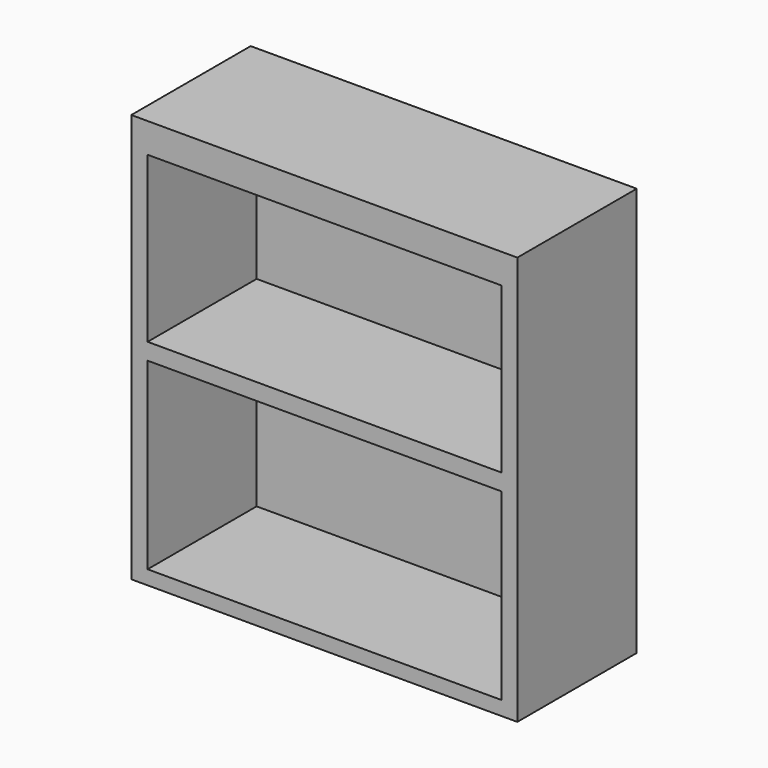
from build123d import *

# Parameters (mm, degrees)
F0_W     = 755.65
F0_H     = 292.1
F1_DEPTH = 800.1
F2_W     = 692.456603
F2_H     = 359.491945
F3_DEPTH = 266.7
F4_W     = 692.456603
F4_H     = 322.354048
F5_DEPTH = 266.7


with BuildPart() as f1:
    # F0 (on Top) → F1 (new body)
    with BuildSketch(Plane.XY):
        with Locations((2.138129, -21.109734)):
            Rectangle(F0_W, F0_H)
    extrude(amount=F1_DEPTH)

    # F2 (on face) → F3 (cut)
    with BuildSketch(Plane.XZ.offset(167.159734)):
        with Locations((2.476693, 207.432329)):
            Rectangle(F2_W, F2_H)
    extrude(amount=-F3_DEPTH, mode=Mode.SUBTRACT)

    # F4 (on face) → F5 (cut)
    with BuildSketch(Plane.XZ.offset(167.159734)):
        with Locations((2.476693, 580.808595)):
            Rectangle(F4_W, F4_H)
    extrude(amount=-F5_DEPTH, mode=Mode.SUBTRACT)


solid = f1.part
